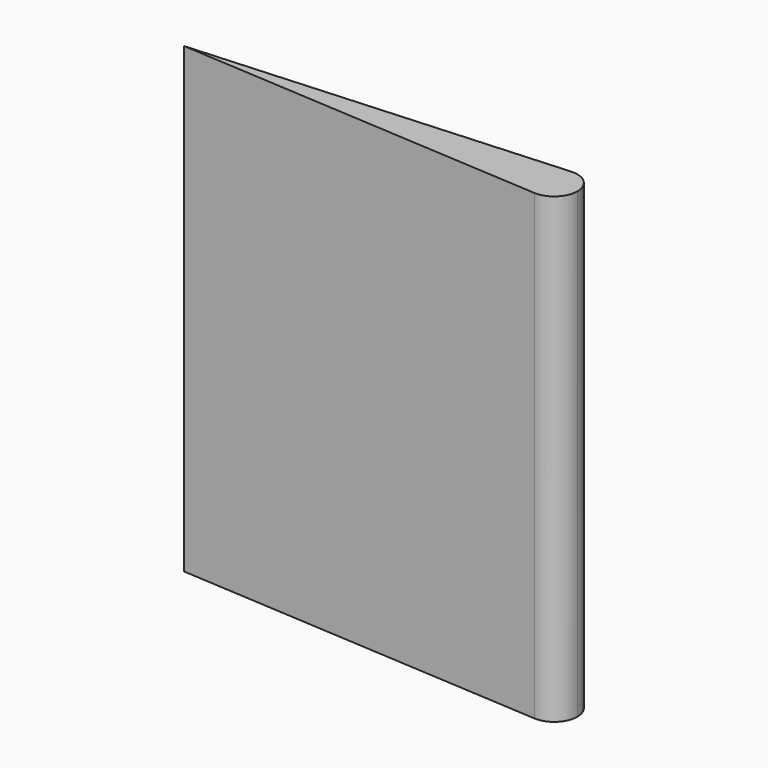
from build123d import *

# Parameters (mm, degrees)
F1_DEPTH = 1270


with BuildPart() as f1:
    # F0 (on Top) → F1 (new body)
    with BuildSketch(Plane.XY):
        with BuildLine():
            ThreePointArc((92.0877278662, -31.6879275845), (115.8098420681, -23.1415904412), (125.8221031826, 0))
            ThreePointArc((125.8221031826, 0), (115.809842886, 23.1415896729), (92.0877301062, 31.6879277248))
            ThreePointArc((92.0877301062, 31.6879277248), (62.3221031826, 1.1222e-06), (92.0877278662, -31.6879275845))
        make_face()
        with BuildLine():
            ThreePointArc((92.0877301062, 31.6879277248), (115.809842886, 23.1415896729), (125.8221031826, 0))
            Line((125.8221031826, 0), (538.5721031826, 0))
            ThreePointArc((538.5721031826, 0), (555.7889212362, 43.4754766382), (598.1033494477, 63.3758549748))
            Line((598.1033494477, 63.3758549748), (92.0877301062, 31.6879277248))
        make_face()
        with BuildLine():
            Line((538.5721031826, 0), (125.8221031826, 0))
            ThreePointArc((125.8221031826, 0), (115.8098420681, -23.1415904412), (92.0877278662, -31.6879275845))
            Line((92.0877278662, -31.6879275845), (598.1033510864, -63.3758550775))
            ThreePointArc((598.1033510864, -63.3758550775), (555.7889217983, -43.4754772366), (538.5721031826, 0))
        make_face()
        with BuildLine():
            Line((602.0721031826, 0), (538.5721031826, 0))
            ThreePointArc((538.5721031826, 0), (555.7889217983, -43.4754772366), (598.1033510864, -63.3758550775))
            ThreePointArc((598.1033510864, -63.3758550775), (645.5475804192, -46.2831813843), (665.5721031826, 0))
            Line((665.5721031826, 0), (602.0721031826, 0))
        make_face()
        with BuildLine():
            ThreePointArc((598.1033494477, 63.3758549748), (555.7889212362, 43.4754766382), (538.5721031826, 0))
            Line((538.5721031826, 0), (602.0721031826, 0))
            Line((602.0721031826, 0), (665.5721031826, 0))
            ThreePointArc((665.5721031826, 0), (645.5475798208, 46.2831819464), (598.1033494477, 63.3758549748))
        make_face()
        with BuildLine():
            ThreePointArc((92.0877278662, -31.6879275845), (62.3221031826, 1.1222e-06), (92.0877301062, 31.6879277248))
            Line((92.0877301062, 31.6879277248), (-413.9278968174, 0))
            Line((-413.9278968174, 0), (92.0877278662, -31.6879275845))
        make_face()
    extrude(amount=F1_DEPTH)


solid = f1.part
